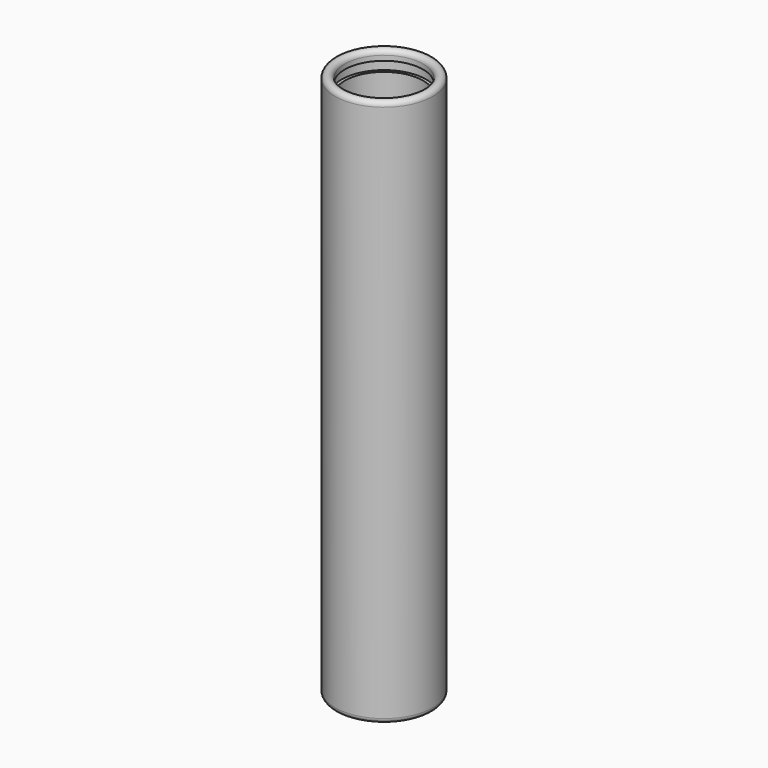
from build123d import *


with BuildPart() as f1:
    # F0 (on Front) → F1 (revolve)
    with BuildSketch(Plane.XZ):
        with BuildLine():
            Line((0, 201.6125), (0, 114.3))
            Line((0, 114.3), (0, 26.9875))
            ThreePointArc((0, 26.9875), (1.5875, 25.4), (3.175, 26.9875))
            Line((3.175, 26.9875), (3.175, 28.575))
            Line((3.175, 28.575), (2.159, 28.575))
            Line((2.159, 28.575), (2.159, 31.75))
            Line((2.159, 31.75), (3.175, 31.75))
            Line((3.175, 31.75), (3.175, 114.3))
            Line((3.175, 114.3), (3.175, 196.85))
            Line((3.175, 196.85), (2.159, 196.85))
            Line((2.159, 196.85), (2.159, 200.025))
            Line((2.159, 200.025), (3.175, 200.025))
            Line((3.175, 200.025), (3.175, 201.6125))
            ThreePointArc((3.175, 201.6125), (1.5875, 203.2), (0, 201.6125))
        make_face()
    revolve(axis=Axis((15.875, 0, 158.75), (0, 0, -1)))


solid = f1.part
